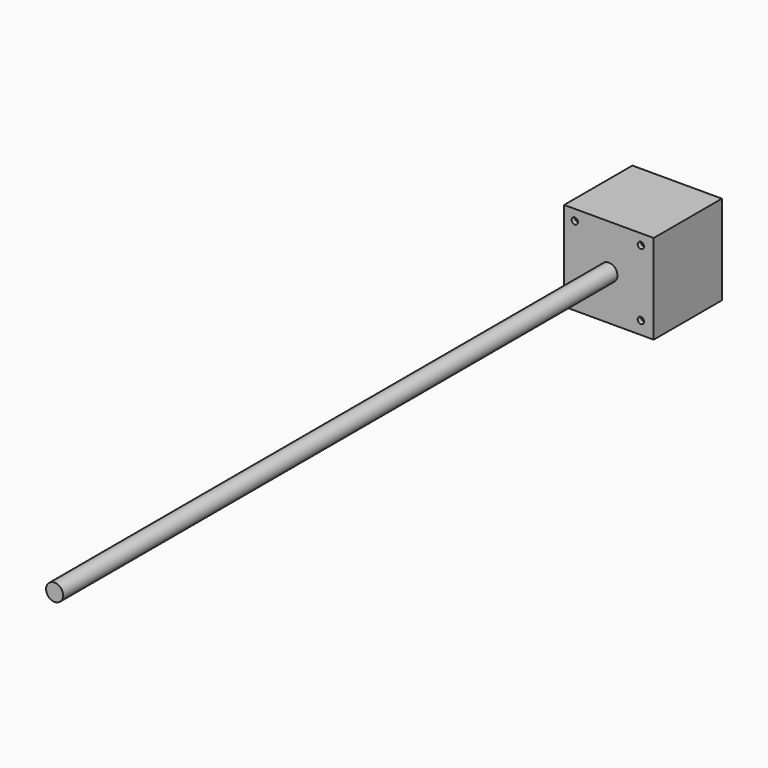
from build123d import *

# Parameters (mm, degrees)
F0_W     = 42
F0_H     = 42
F1_DEPTH = 40
F2_R     = 4
F3_DEPTH = 325
F4_R     = 1.5
F5_DEPTH = 2


with BuildPart() as f1:
    # F0 (on Front) → F1 (new body)
    with BuildSketch(Plane.XZ):
        Rectangle(F0_W, F0_H)
    extrude(amount=F1_DEPTH)

    # F2 (on face) → F3 (join)
    with BuildSketch(Plane.XZ.offset(40)):
        Circle(F2_R)
    extrude(amount=F3_DEPTH)

    # F4 (on face) → F5 (cut)
    with BuildSketch(Plane.XZ.offset(40)):
        with Locations((-16, -15)):
            Circle(F4_R)
        with BuildLine():
            ThreePointArc((-17.5, 16), (-16, 14.5), (-14.5, 16))
            ThreePointArc((-14.5, 16), (-16, 17.5), (-17.5, 16))
        make_face()
        with Locations((15, -15)):
            Circle(F4_R)
        with Locations((15, 16)):
            Circle(F4_R)
    extrude(amount=-F5_DEPTH, mode=Mode.SUBTRACT)


solid = f1.part
